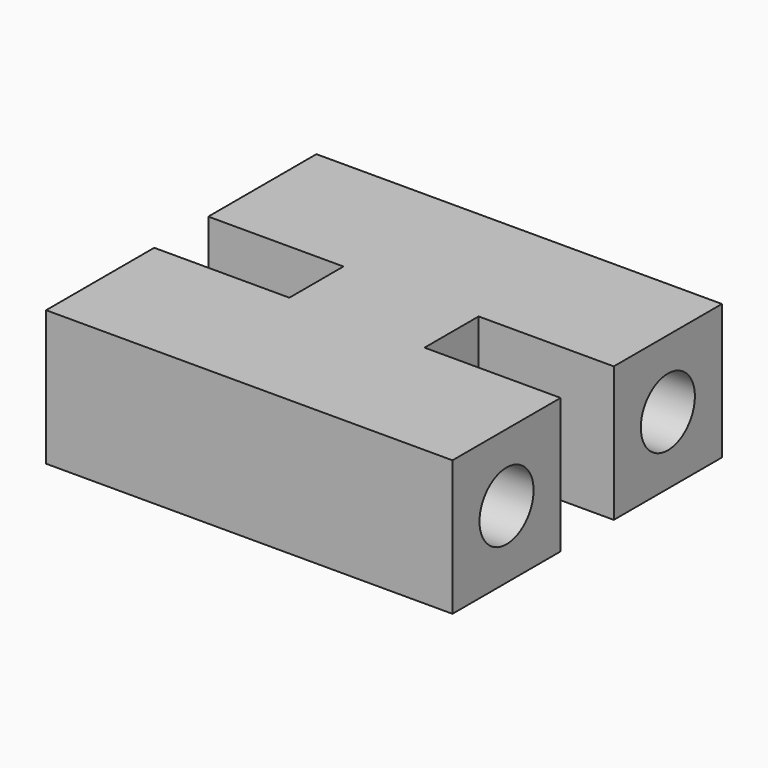
from build123d import *

# Parameters (mm, degrees)
F1_DEPTH = 10
F3_R     = 2.5
F4_DEPTH = 45.9


with BuildPart() as f1:
    # F0 (on Top) → F1 (new body)
    with BuildSketch(Plane.XY):
        Polygon((30, 0), (0, 0), (0, -10), (10, -10), (10, -15), (0, -15), (0, -25), (30.0657091261, -25), (30.0657091261, -15), (20, -15), (20, -10), (30, -10), align=None)
    extrude(amount=F1_DEPTH)

    # F3 (on offset) → F4 (cut)
    with BuildSketch(Plane(origin=(0, 0, 0), x_dir=(0, -1, 0), z_dir=(-1, 0, 0))):
        with Locations((5, 5)):
            Circle(F3_R)
        with Locations((20, 5)):
            Circle(F3_R)
    extrude(amount=-F4_DEPTH, mode=Mode.SUBTRACT)


solid = f1.part
